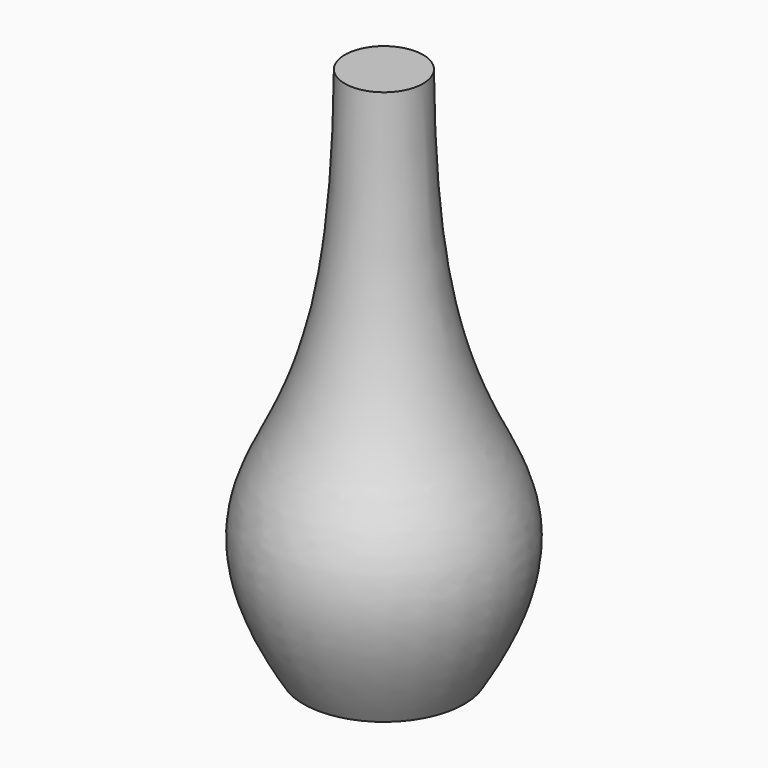
from build123d import *


with BuildPart() as f1:
    # F0 (on Front) → F1 (revolve)
    with BuildSketch(Plane.XZ):
        with BuildLine():
            Line((0, 67.3732310534), (0, 0))
            Line((0, 0), (10.1643605158, 0))
            add(Edge.make_bspline(
                [(10.1643605158, 0), (19.2997008297, 14.7180465842), (9.561488402, 28.0976473715), (5.1187074037, 46.1987390439), (4.944824148, 67.3732310534)],
                knots=[0, 0, 0, 0, 0.4549491196, 1, 1, 1, 1], degree=3))
            Line((4.944824148, 67.3732310534), (0, 67.3732310534))
        make_face()
    revolve(axis=Axis((0, 0, 33.6866155267), (0, 0, -1)))


solid = f1.part
